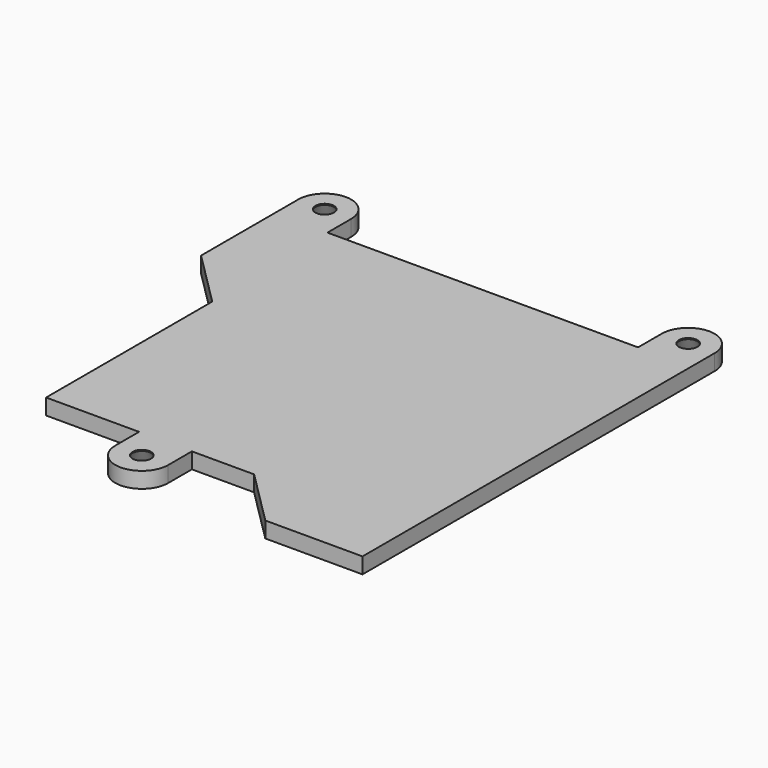
from build123d import *

# Parameters (mm, degrees)
F0_R     = 1.75
F1_DEPTH = 3
F2_SIZE2 = 2.8
F2_SIZE  = 1.6


with BuildPart() as f1:
    # F0 (on Top) → F1 (new body)
    with BuildSketch(Plane.XY):
        with BuildLine():
            Line((17.9, -39.193), (17.9, -44.793))
            ThreePointArc((17.9, -44.793), (22.9, -49.793), (27.9, -44.793))
            Line((27.9, -44.793), (27.9, -39.193))
            Line((27.9, -39.193), (39.6807047181, -39.193))
            Line((39.6807047181, -39.193), (50.1974673469, -49.6928583233))
            Line((50.1974673469, -49.6928583233), (68.6003446043, -49.6928583233))
            Line((68.6003446043, -49.6928583233), (68.6003446043, 33.6071416767))
            ThreePointArc((68.6003446043, 33.6071416767), (63.6003446043, 38.6071416767), (58.6003446043, 33.6071416767))
            Line((58.6003446043, 33.6071416767), (58.6003446043, 28.0071416767))
            Line((58.6003446043, 28.0071416767), (-0.1976553957, 28.0071416767))
            Line((-0.1976553957, 28.0071416767), (-0.1976553957, 33.6071416767))
            ThreePointArc((-0.1976553957, 33.6071416767), (-5.1976553957, 38.6071416767), (-10.1976553957, 33.6071416767))
            Line((-10.1976553957, 33.6071416767), (-10.1976553957, 10.6051872446))
            Line((-10.1976553957, 10.6051872446), (0.3, 0.124405442))
            Line((0.3, 0.124405442), (0.3, -39.193))
            Line((0.3, -39.193), (17.9, -39.193))
        make_face()
        with Locations((22.9, -44.793)):
            Circle(F0_R, mode=Mode.SUBTRACT)
        with Locations((-5.1976553957, 33.6071416767)):
            Circle(F0_R, mode=Mode.SUBTRACT)
        with Locations((63.6003446043, 33.6071416767)):
            Circle(F0_R, mode=Mode.SUBTRACT)
    extrude(amount=F1_DEPTH)

    # F2
    f2_edges = [f1.edges().sort_by_distance(p)[0] for p in [
        (21.15, -44.793, 0),
        (-6.947655, 33.607142, 0),
        (61.850345, 33.607142, 0),
    ]]
    f2_side = f1.faces().sort_by_distance((33.388783, -5.784916, 0))[0]
    chamfer(f2_edges, length=F2_SIZE, length2=F2_SIZE2, reference=f2_side)


solid = f1.part
